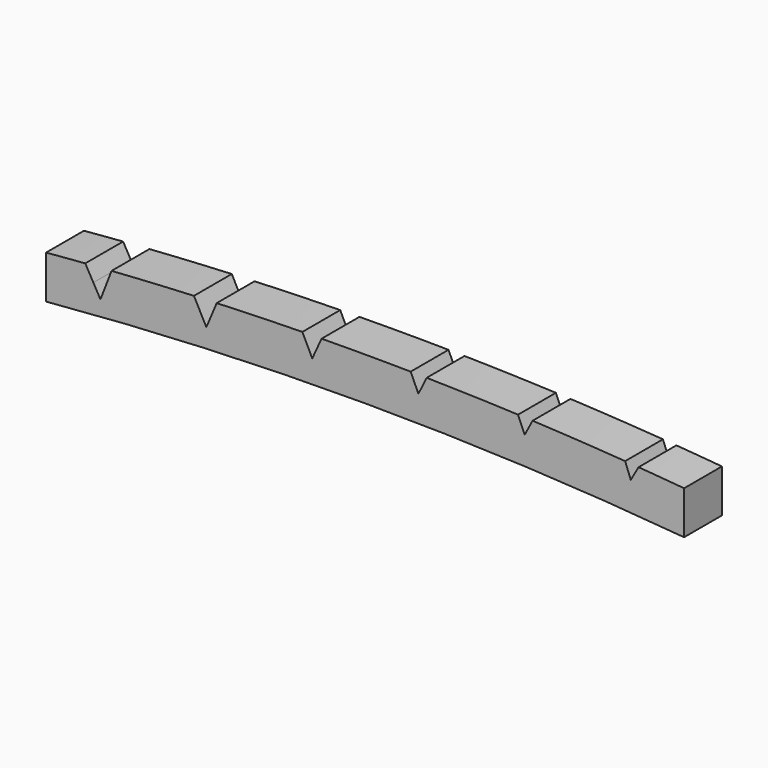
from build123d import *

# Parameters (mm, degrees)
F2_DEPTH = 3.175
F4_DEPTH = 3.176


with BuildPart() as f2:
    # F1 (on Front) → F2 (new body)
    with BuildSketch(Plane.XZ):
        with BuildLine():
            Line((21.4122, -3.8375487704), (21.4122, -0.9419487704))
            ThreePointArc((21.4122, -0.9419487704), (0, 0), (-21.4122, -0.9419487704))
            Line((-21.4122, -0.9419487704), (-21.4122, -3.8375487704))
            ThreePointArc((-21.4122, -3.8375487704), (0, -2.8856456864), (21.4122, -3.8375487704))
        make_face()
    extrude(amount=F2_DEPTH)

    # F3 (on face) → F4 (cut, through all)
    with BuildSketch(Plane.XZ.offset(3.175)):
        with BuildLine():
            Line((-16.877150001, -0.2302185732), (-18.9748496265, -0.3844076014))
            Line((-18.9748496265, -0.3844076014), (-18.2392657349, -1.6819258763))
            ThreePointArc((-18.2392657349, -1.6819258763), (-17.9581295067, -1.0143624708), (-17.3843341446, -1.4564454512))
            ThreePointArc((-17.3843341446, -1.4564454512), (-17.3920934435, -1.5403197391), (-17.4151079687, -1.6213471081))
            Line((-17.4151079687, -1.6213471081), (-16.877150001, -0.2302185732))
        make_face()
        with BuildLine():
            ThreePointArc((-17.4151079687, -1.6213471081), (-17.808018602, -1.9124153497), (-18.2392657349, -1.6819258763))
            Line((-18.2392657349, -1.6819258763), (-17.7632411909, -2.5215997085))
            Line((-17.7632411909, -2.5215997085), (-17.4151079687, -1.6213471081))
        make_face()
        with BuildLine():
            ThreePointArc((-17.3843341446, -1.4564454512), (-17.9581295067, -1.0143624708), (-18.2392657349, -1.6819258763))
            ThreePointArc((-18.2392657349, -1.6819258763), (-17.808018602, -1.9124153497), (-17.4151079687, -1.6213471081))
            ThreePointArc((-17.4151079687, -1.6213471081), (-17.3920934435, -1.5403197391), (-17.3843341446, -1.4564454512))
        make_face()
        Polygon((-11.8018317816, 0.3221485882), (-10.6535149923, -1.8497062999), (-9.7005085696, 0.4146620143), align=None)
        Polygon((-4.6297261067, 0.8171098674), (-3.5456917006, -1.3875339838), (-2.5265922736, 0.8478678732), align=None)
        Polygon((2.5609041822, 1.0761222144), (3.5797209294, -1.1594084921), (4.6640341091, 1.0450982628), align=None)
        Polygon((9.7571629435, 0.9970667736), (10.709883024, -1.2674220323), (11.8584744402, 0.9042876313), align=None)
        Polygon((16.9491408118, 0.681489948), (17.8349422443, -1.6100032173), (19.046820923, 0.5270356622), align=None)
    extrude(amount=-F4_DEPTH, mode=Mode.SUBTRACT)


solid = f2.part
